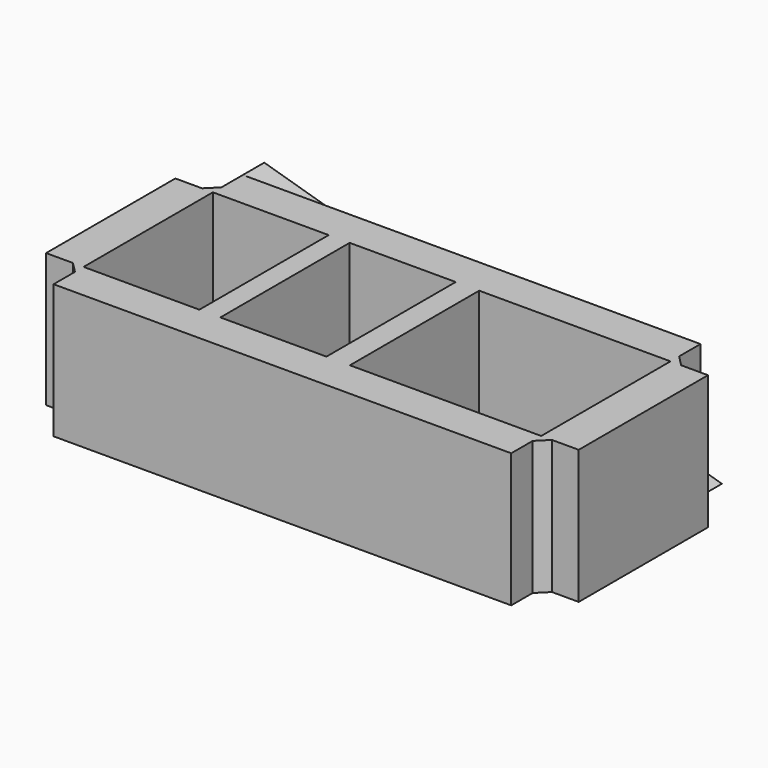
from build123d import *

# Parameters (mm, degrees)
F0_W      = 21.620078
F0_H      = 30.16656
F0_W_2    = 19.802009
F0_W_3    = 35.716062
F1_DEPTH  = 25
F2_W      = 85.43355
F2_H      = 25
F3_DEPTH  = 5
F4_W      = 85.43355
F4_H      = 25
F5_DEPTH  = 5
F6_W      = 30.16656
F6_H      = 25
F7_DEPTH  = 5
F8_W      = 30.16656
F8_H      = 25
F9_DEPTH  = 5
F11_DEPTH = 5


with BuildPart() as f1:
    # F0 (on Top) → F1 (new body)
    with BuildSketch(Plane.XY):
        Polygon((-36.758605, 15.372929), (-38.758605, 13.372929), (-38.758605, -16.793631), (-36.758605, -18.793631), (48.674945, -18.793631), (50.674945, -16.793631), (50.674945, 13.372929), (48.674945, 15.372929), align=None)
        with Locations((-25.948566, -1.710351)):
            Rectangle(F0_W, F0_H, mode=Mode.SUBTRACT)
        with Locations((-1.321006, -1.710351)):
            Rectangle(F0_W_2, F0_H, mode=Mode.SUBTRACT)
        with Locations((30.816914, -1.710351)):
            Rectangle(F0_W_3, F0_H, mode=Mode.SUBTRACT)
    extrude(amount=F1_DEPTH)

    # F2 (on face) → F3 (join)
    with BuildSketch(Plane(origin=(0, 15.372929, 0), x_dir=(-1, 0, 0), z_dir=(0, 1, 0))):
        with Locations((-5.95817, 12.5)):
            Rectangle(F2_W, F2_H)
    extrude(amount=F3_DEPTH)

    # F4 (on face) → F5 (join)
    with BuildSketch(Plane.XZ.offset(18.793631)):
        with Locations((5.95817, 12.5)):
            Rectangle(F4_W, F4_H)
    extrude(amount=F5_DEPTH)

    # F6 (on face) → F7 (join)
    with BuildSketch(Plane(origin=(-38.758605, 0, 0), x_dir=(0, -1, 0), z_dir=(-1, 0, 0))):
        with Locations((1.710351, 12.5)):
            Rectangle(F6_W, F6_H)
    extrude(amount=F7_DEPTH)

    # F8 (on face) → F9 (join)
    with BuildSketch(Plane.YZ.offset(50.674945)):
        with Locations((-1.710351, 12.5)):
            Rectangle(F8_W, F8_H)
    extrude(amount=F9_DEPTH)

    # F10 (on face) → F11 (join)
    with BuildSketch(Plane(origin=(0, 20.372929, 0), x_dir=(-1, 0, 0), z_dir=(0, 1, 0))):
        Polygon((36.758605, 25), (-48.674945, 0), (36.758605, 0), align=None)
    extrude(amount=F11_DEPTH)


solid = f1.part
